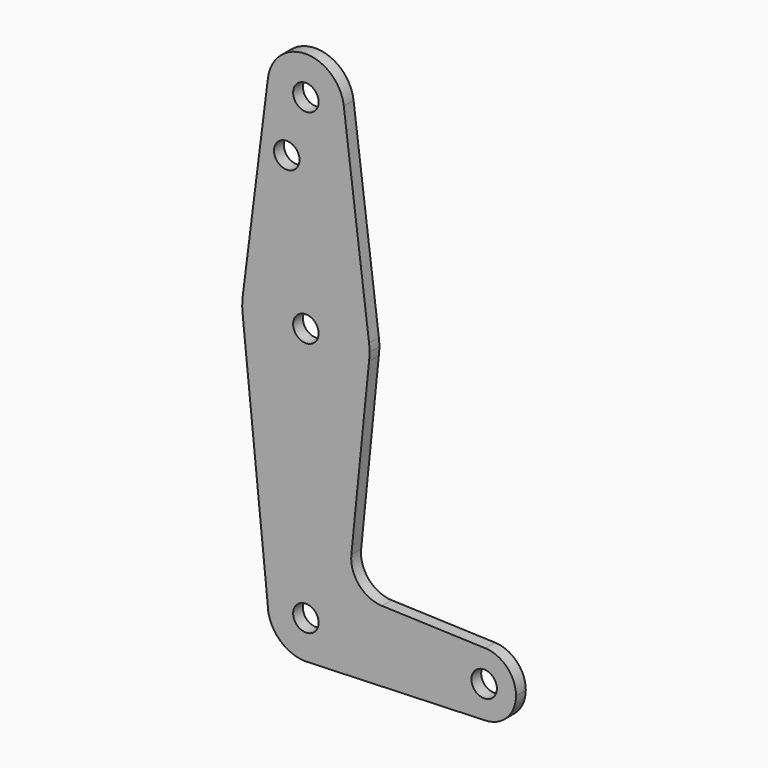
from build123d import *

# Parameters (mm, degrees)
F0_R     = 3.175
F1_DEPTH = 3.048


with BuildPart() as f1:
    # F0 (on Front) → F1 (new body)
    with BuildSketch(Plane.XZ):
        with BuildLine():
            ThreePointArc((9.450293, 115.490625), (9.506305, 114.896483), (9.525, 114.3))
            ThreePointArc((9.525, 114.3), (-0.596483, 104.793695), (-9.450293, 115.490625))
            Line((-9.450293, 115.490625), (-15.750488, 65.484375))
            ThreePointArc((-15.750488, 65.484375), (0, 79.375), (15.750488, 65.484375))
            Line((15.750488, 65.484375), (9.450293, 115.490625))
        make_face()
        with Locations((-4.7625, 100.0252)):
            Circle(F0_R, mode=Mode.SUBTRACT)
        with BuildLine():
            ThreePointArc((15.750488, 61.515625), (-0.193615, 47.626181), (-15.794203, 61.90038))
            Line((-15.794203, 61.90038), (-9.525, 0))
            ThreePointArc((-9.525, 0), (0, 9.525), (9.525, 0))
            ThreePointArc((9.525, 0), (6.970557, -6.491299), (0.677344, -9.500886))
            Line((0.677344, -9.500886), (44.732405, -7.932475))
            ThreePointArc((44.732405, -7.932475), (36.5125, 0), (44.732405, 7.932475))
            Line((44.732405, 7.932475), (18.966834, 8.849759))
            ThreePointArc((18.966834, 8.849759), (13.25992, 11.567276), (11.339279, 17.589312))
            Line((11.339279, 17.589312), (15.750488, 61.515625))
        make_face()
        with BuildLine():
            ThreePointArc((15.875, 63.5), (15.843841, 64.494139), (15.750488, 65.484375))
            ThreePointArc((15.750488, 65.484375), (0, 79.375), (-15.750488, 65.484375))
            ThreePointArc((-15.750488, 65.484375), (-15.873819, 63.693615), (-15.794203, 61.90038))
            ThreePointArc((-15.794203, 61.90038), (-0.193615, 47.626181), (15.750488, 61.515625))
            ThreePointArc((15.750488, 61.515625), (15.843841, 62.505861), (15.875, 63.5))
        make_face()
        with Locations((0, 63.5)):
            Circle(F0_R, mode=Mode.SUBTRACT)
        with BuildLine():
            ThreePointArc((9.525, 0), (0, 9.525), (-9.525, 0))
            ThreePointArc((-9.525, 0), (-6.735192, -6.735192), (0, -9.525))
            Line((0, -9.525), (0.677344, -9.500886))
            ThreePointArc((0.677344, -9.500886), (6.970557, -6.491299), (9.525, 0))
        make_face()
        Circle(F0_R, mode=Mode.SUBTRACT)
        with BuildLine():
            ThreePointArc((52.3875, 0), (50.161633, 5.51191), (44.732405, 7.932475))
            ThreePointArc((44.732405, 7.932475), (36.5125, 0), (44.732405, -7.932475))
            ThreePointArc((44.732405, -7.932475), (50.161633, -5.51191), (52.3875, 0))
        make_face()
        with Locations((44.45, 0)):
            Circle(F0_R, mode=Mode.SUBTRACT)
        with BuildLine():
            ThreePointArc((-9.450293, 115.490625), (-0.596483, 104.793695), (9.525, 114.3))
            ThreePointArc((9.525, 114.3), (9.506305, 114.896483), (9.450293, 115.490625))
            ThreePointArc((9.450293, 115.490625), (0, 123.825), (-9.450293, 115.490625))
        make_face()
        with Locations((0, 114.3)):
            Circle(F0_R, mode=Mode.SUBTRACT)
    extrude(amount=F1_DEPTH)


solid = f1.part
